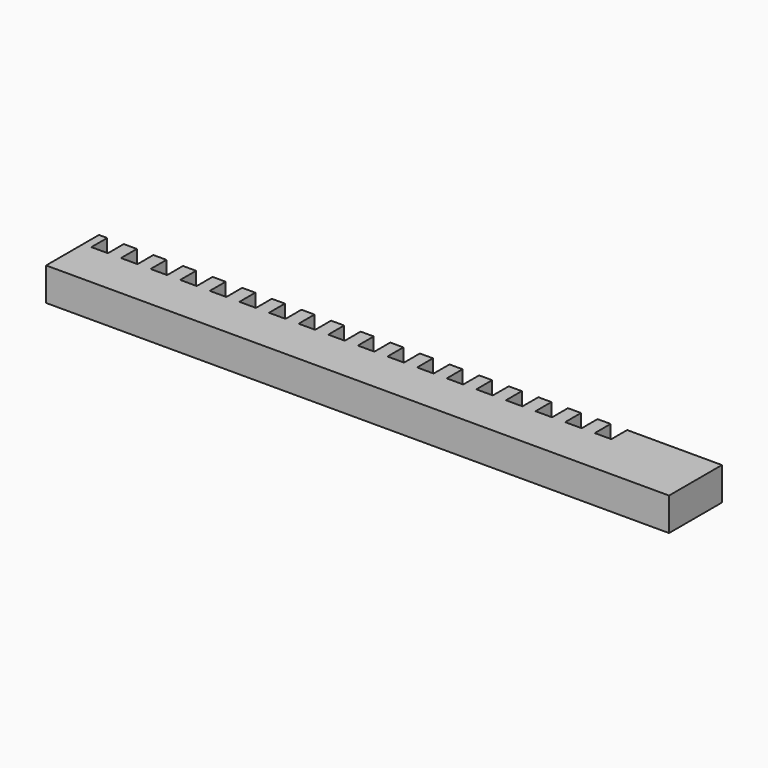
from build123d import *

# Parameters (mm, degrees)
F1_DEPTH = 10


with BuildPart() as f1:
    # F0 (on Top) → F1 (new body)
    with BuildSketch(Plane.XY):
        Polygon((0, 20), (0, 0), (188.49556, 0), (188.49556, 20), (159.82, 20), (159.82, 14), (157.32, 14), (154.82, 14), (154.82, 20), (150.86, 20), (150.86, 14), (148.36, 14), (145.86, 14), (145.86, 20), (141.9, 20), (141.9, 14), (139.4, 14), (136.9, 14), (136.9, 20), (132.94, 20), (132.94, 14), (130.44, 14), (127.94, 14), (127.94, 20), (123.98, 20), (123.98, 14), (121.48, 14), (118.98, 14), (118.98, 20), (115.02, 20), (115.02, 14), (112.52, 14), (110.02, 14), (110.02, 20), (106.06, 20), (106.06, 14), (103.56, 14), (101.06, 14), (101.06, 20), (97.1, 20), (97.1, 14), (94.6, 14), (92.1, 14), (92.1, 20), (88.14, 20), (88.14, 14), (85.64, 14), (83.14, 14), (83.14, 20), (79.18, 20), (79.18, 14), (76.68, 14), (74.18, 14), (74.18, 20), (70.22, 20), (70.22, 14), (67.72, 14), (65.22, 14), (65.22, 20), (61.26, 20), (61.26, 14), (58.76, 14), (56.26, 14), (56.26, 20), (52.3, 20), (52.3, 14), (49.8, 14), (47.3, 14), (47.3, 20), (43.34, 20), (43.34, 14), (40.84, 14), (38.34, 14), (38.34, 20), (34.38, 20), (34.38, 14), (31.88, 14), (29.38, 14), (29.38, 20), (25.42, 20), (25.42, 14), (22.92, 14), (20.42, 14), (20.42, 20), (16.46, 20), (16.46, 14), (13.96, 14), (11.46, 14), (11.46, 20), (7.5, 20), (7.5, 14), (5, 14), (2.5, 14), (2.5, 20), align=None)
    extrude(amount=F1_DEPTH)


solid = f1.part
